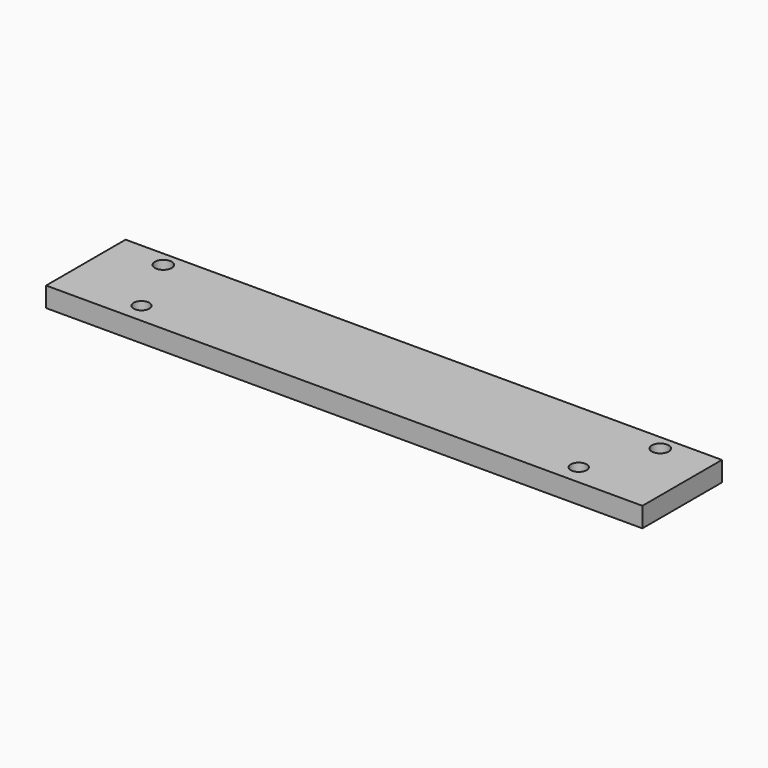
from build123d import *

# Parameters (mm, degrees)
F0_W     = 50
F0_H     = 10
F1_DEPTH = 300
F2_R     = 4.25
F3_DEPTH = 25
F4_R     = 4
F5_DEPTH = 329


with BuildPart() as f1:
    # F0 (on Right) → F1 (new body)
    with BuildSketch(Plane.YZ):
        Rectangle(F0_W, F0_H)
    extrude(amount=F1_DEPTH)

    # F2 (on face) → F3 (cut)
    with BuildSketch(Plane.XY.offset(5)):
        with Locations((25, 17.5)):
            Circle(F2_R)
        with Locations((275, 17.5)):
            Circle(F2_R)
    extrude(amount=-F3_DEPTH, mode=Mode.SUBTRACT)

    # F4 (on face) → F5 (cut)
    with BuildSketch(Plane.XY.offset(5)):
        with Locations((40, -15)):
            Circle(F4_R)
        with Locations((260, -15)):
            Circle(F4_R)
    extrude(amount=-F5_DEPTH, mode=Mode.SUBTRACT)


solid = f1.part
